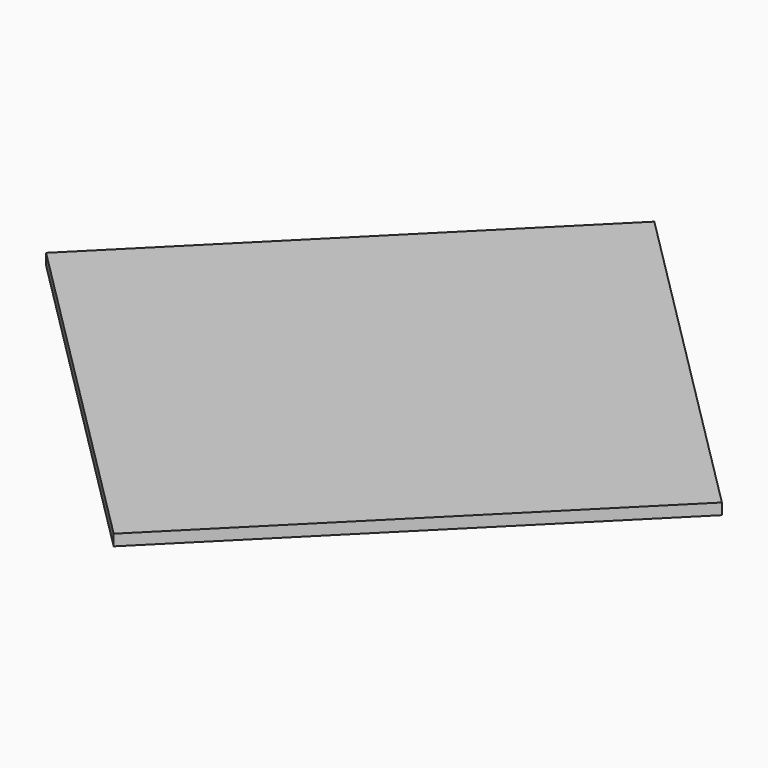
from build123d import *

# Parameters (mm, degrees)
F1_DEPTH = 16


with BuildPart() as f1:
    # F0 (on Top) → F1 (new body)
    with BuildSketch(Plane.XY):
        Polygon((-41.666667, 0), (442.333333, 0), (-41.666667, 484), align=None)
        Polygon((-41.666667, 0), (-41.666667, 484), (-525.666667, 0), align=None)
        Polygon((-525.666667, 0), (-41.666667, -484), (-41.666667, 0), align=None)
        Polygon((-41.666667, -484), (442.333333, 0), (-41.666667, 0), align=None)
    extrude(amount=F1_DEPTH)


solid = f1.part
